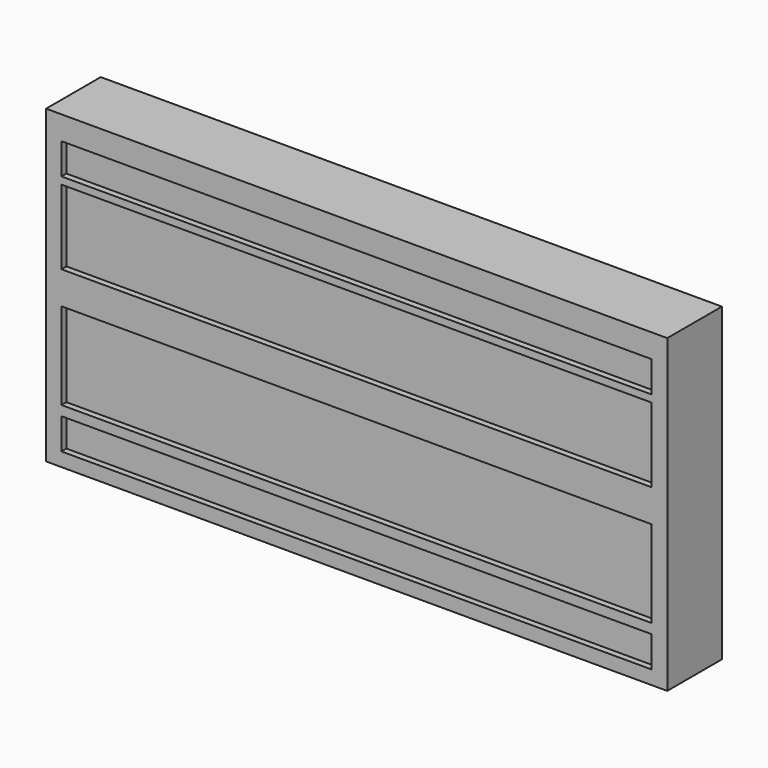
from build123d import *

# Parameters (mm, degrees)
F0_W     = 100
F0_H     = 50
F1_DEPTH = 10
F2_W     = 100
F2_H     = 50
F2_W_2   = 95
F2_H_2   = 5
F2_H_3   = 14
F2_H_4   = 12
F3_DEPTH = 1


with BuildPart() as f1:
    # F0 (on Front) → F1 (new body)
    with BuildSketch(Plane.XZ):
        Rectangle(F0_W, F0_H)
    extrude(amount=F1_DEPTH)

    # F2 (on face) → F3 (join)
    with BuildSketch(Plane.XZ.offset(10)):
        Rectangle(F2_W, F2_H)
        with Locations((-0.025468, -20.277101)):
            Rectangle(F2_W_2, F2_H_2, mode=Mode.SUBTRACT)
        with Locations((-0.025468, -9.200179)):
            Rectangle(F2_W_2, F2_H_3, mode=Mode.SUBTRACT)
        with Locations((-0.025468, 9.043411)):
            Rectangle(F2_W_2, F2_H_4, mode=Mode.SUBTRACT)
        with Locations((-0.025468, 18.697258)):
            Rectangle(F2_W_2, F2_H_2, mode=Mode.SUBTRACT)
    extrude(amount=F3_DEPTH)


solid = f1.part
